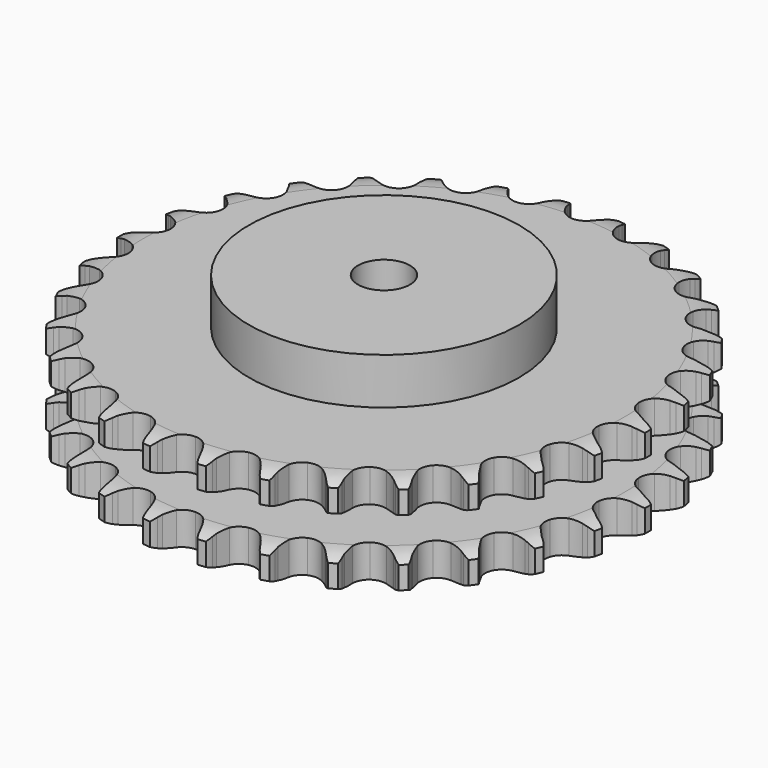
from build123d import *

# Parameters (mm, degrees)
PAD_DEPTH         = 47.7
SKETCH001_R       = 65
PAD001_DEPTH      = 70
SKETCH002_R       = 12.5
POCKET_DEPTH      = 0.0010001
POCKET_DEPTH_BACK = 70.001


with BuildPart() as part:
    # Sprocket → Pad (new body)
    with BuildSketch(Plane.XY):
        with BuildLine():
            ThreePointArc((-13.5497654013, 128.9174062969), (-11.4578494208, 126.5727685834), (-9.991186276, 123.7938591398))
            Line((-9.991186276, 123.7938591398), (-9.2168301188, 121.7624754553))
            ThreePointArc((-9.2168301188, 121.7624754553), (-7.9895060574, 119.1184321028), (-6.4032997925, 116.6727748729))
            ThreePointArc((-6.4032997925, 116.6727748729), (-3.577524826, 114.3226026411), (0, 113.4802073655))
            ThreePointArc((0, 113.4802073655), (3.577524826, 114.3226026411), (6.4032997925, 116.6727748729))
            ThreePointArc((6.4032997925, 116.6727748729), (7.9895060574, 119.1184321028), (9.2168301188, 121.7624754553))
            Line((9.2168301188, 121.7624754553), (9.991186276, 123.7938591398))
            ThreePointArc((9.991186276, 123.7938591398), (11.4578494208, 126.5727685834), (13.5497654013, 128.9174062969))
            ThreePointArc((13.5497654013, 128.9174062969), (15.1084904071, 126.1890707543), (15.9653356822, 123.1659507351))
            Line((15.9653356822, 123.1659507351), (16.300421883, 121.01795996))
            ThreePointArc((16.300421883, 121.01795996), (16.951198445, 118.1765202778), (17.9942615675, 115.4545156995))
            ThreePointArc((17.9942615675, 115.4545156995), (20.2696582887, 112.5681887185), (23.5938617877, 111.0003925654))
            ThreePointArc((23.5938617877, 111.0003925654), (27.2683529389, 111.0805702475), (30.521006225, 112.7918739262))
            Line((30.521006225, 112.7918739262), (34.3312624171, 117.185386492))
            ThreePointArc((34.3312624171, 117.185386492), (34.8971912814, 118.1138665489), (35.511045451, 119.0113818712))
            ThreePointArc((35.511045451, 119.0113818712), (37.5234262482, 121.4246290619), (40.0571064368, 123.2830970273))
            ThreePointArc((40.0571064368, 123.2830970273), (41.0145167057, 120.2903050109), (41.224095861, 117.1550992674))
            Line((41.224095861, 117.1550992674), (41.1052672304, 114.9843789058))
            ThreePointArc((41.1052672304, 114.9843789058), (41.1510542344, 112.0697274427), (41.6053873508, 109.1903401779))
            ThreePointArc((41.6053873508, 109.1903401779), (43.2309600716, 105.8940047869), (46.1565585994, 103.6693279711))
            ThreePointArc((46.1565585994, 103.6693279711), (49.7674231803, 102.9837839104), (53.3047982295, 103.9814268535))
            Line((53.3047982295, 103.9814268535), (57.9452538082, 107.4867338212))
            ThreePointArc((57.9452538082, 107.4867338212), (58.6918576274, 108.2772611341), (59.4789015388, 109.0275361349))
            ThreePointArc((59.4789015388, 109.0275361349), (61.9490492912, 110.9696505904), (64.8137597057, 112.2607248398))
            ThreePointArc((64.8137597057, 112.2607248398), (65.1280118147, 109.1342757216), (64.6811652354, 106.0240077893))
            Line((64.6811652354, 106.0240077893), (64.1136151549, 103.9254287372))
            ThreePointArc((64.1136151549, 103.9254287372), (63.5524114892, 101.0649497481), (63.3981580622, 98.1540228371))
            ThreePointArc((63.3981580622, 98.1540228371), (64.3028614541, 94.5917447102), (66.7019923165, 91.8074162839))
            ThreePointArc((66.7019923165, 91.8074162839), (70.0914182181, 90.3861120454), (73.7589147665, 90.626492469))
            Line((73.7589147665, 90.626492469), (79.0267595556, 93.0903951038))
            ThreePointArc((79.0267595556, 93.0903951038), (79.9214081604, 93.7084198358), (80.847244218, 94.2786638974))
            ThreePointArc((80.847244218, 94.2786638974), (83.6672016156, 95.6647658965), (86.7377406645, 96.33202029))
            ThreePointArc((86.7377406645, 96.33202029), (86.3951002886, 93.2085548989), (85.3113573145, 90.2591584111))
            Line((85.3113573145, 90.2591584111), (84.3198904458, 88.3244386432))
            ThreePointArc((84.3198904458, 88.3244386432), (83.1762234035, 85.6431487862), (82.4201250481, 82.827903703))
            ThreePointArc((82.4201250481, 82.827903703), (82.5644192318, 79.1553714882), (84.3322288978, 75.9330799642))
            ThreePointArc((84.3322288978, 75.9330799642), (87.3520819439, 73.8381333633), (90.9894127937, 73.3107454895))
            Line((90.9894127937, 73.3107454895), (96.654416698, 74.6255594231))
            ThreePointArc((96.654416698, 74.6255594231), (97.6580096513, 75.0440709278), (98.6821743767, 75.4093616483))
            ThreePointArc((98.6821743767, 75.4093616483), (101.7286957497, 76.1788718826), (104.8708661424, 76.1931442012))
            ThreePointArc((104.8708661424, 76.1931442012), (103.8863083102, 73.2091729629), (102.2130337095, 70.5495506989))
            Line((102.2130337095, 70.5495506989), (100.8409819126, 68.8632467529))
            ThreePointArc((100.8409819126, 68.8632467529), (99.1648352313, 66.4783312608), (97.8399370737, 63.8818077248))
            ThreePointArc((97.8399370737, 63.8818077248), (97.2175157009, 60.2595287025), (98.2767424053, 56.7401036828))
            ThreePointArc((98.2767424053, 56.7401036828), (100.7950405269, 54.0630739386), (104.2432368662, 52.7909671481))
            Line((104.2432368662, 52.7909671481), (110.0578120314, 52.8992287024))
            ThreePointArc((110.0578120314, 52.8992287024), (111.1264875053, 53.0999360188), (112.2042199856, 53.2443084409))
            ThreePointArc((112.2042199856, 53.2443084409), (115.344157731, 53.3635956205), (118.4206315437, 52.7242620956))
            ThreePointArc((118.4206315437, 52.7242620956), (116.8371861568, 50.0101988718), (114.6475100589, 47.7565890868))
            Line((114.6475100589, 47.7565890868), (112.954838581, 46.3924005369))
            ThreePointArc((112.954838581, 46.3924005369), (110.8194679139, 44.4080916609), (108.9836743612, 42.14377021))
            ThreePointArc((108.9836743612, 42.14377021), (107.6217402326, 38.7300553552), (107.9260906855, 35.0673126011))
            ThreePointArc((107.9260906855, 35.0673126011), (109.8327721706, 31.9251987593), (112.941131273, 29.9639702232))
            Line((112.941131273, 29.9639702232), (118.651152863, 28.8609478488))
            ThreePointArc((118.651152863, 28.8609478488), (119.7382046112, 28.835079104), (120.8224027654, 28.7522234601))
            ThreePointArc((120.8224027654, 28.7522234601), (123.9185265368, 28.216074163), (126.7948471013, 26.9510767373))
            ThreePointArc((126.7948471013, 26.9510767373), (124.6817183213, 24.6255391144), (122.071340079, 22.8764353701))
            Line((122.071340079, 22.8764353701), (120.132026786, 21.893983802))
            ThreePointArc((120.132026786, 21.893983802), (117.6307580778, 20.3970053618), (115.3643021173, 18.5638477088))
            ThreePointArc((115.3643021173, 18.5638477088), (113.3223782897, 15.5078927415), (112.8585509159, 11.8619116872))
            ThreePointArc((112.8585509159, 11.8619116872), (114.0702846344, 8.3920392002), (116.7029562916, 5.8274040164))
            Line((116.7029562916, 5.8274040164), (122.0588689631, 3.561305084))
            ThreePointArc((122.0588689631, 3.561305084), (123.116787608, 3.3099908664), (124.1600667743, 3.0035283456))
            ThreePointArc((124.1600667743, 3.0035283456), (127.0770611059, 1.8353748687), (129.6275194113, 0))
            ThreePointArc((129.6275194113, 0), (127.0770611059, -1.8353748687), (124.1600667743, -3.0035283456))
            Line((124.1600667743, -3.0035283456), (122.0588689631, -3.561305084))
            ThreePointArc((122.0588689631, -3.561305084), (119.3010196587, -4.5055279473), (116.7029562916, -5.8274040164))
            ThreePointArc((116.7029562916, -5.8274040164), (114.0702846344, -8.3920392002), (112.8585509159, -11.8619116872))
            ThreePointArc((112.8585509159, -11.8619116872), (113.3223782897, -15.5078927415), (115.3643021173, -18.5638477088))
            Line((115.3643021173, -18.5638477088), (120.132026786, -21.893983802))
            ThreePointArc((120.132026786, -21.893983802), (121.1145762065, -22.3597598552), (122.071340079, -22.8764353701))
            ThreePointArc((122.071340079, -22.8764353701), (124.6817183213, -24.6255391144), (126.7948471013, -26.9510767373))
            ThreePointArc((126.7948471013, -26.9510767373), (123.9185265368, -28.216074163), (120.8224027654, -28.7522234601))
            Line((120.8224027654, -28.7522234601), (118.651152863, -28.8609478488))
            ThreePointArc((118.651152863, -28.8609478488), (115.7572542107, -29.2111480652), (112.941131273, -29.9639702232))
            ThreePointArc((112.941131273, -29.9639702232), (109.8327721706, -31.9251987593), (107.9260906855, -35.0673126011))
            ThreePointArc((107.9260906855, -35.0673126011), (107.6217402326, -38.7300553552), (108.9836743612, -42.14377021))
            Line((108.9836743612, -42.14377021), (112.954838581, -46.3924005369))
            ThreePointArc((112.954838581, -46.3924005369), (113.8190766525, -47.0522817771), (114.6475100589, -47.7565890868))
            ThreePointArc((114.6475100589, -47.7565890868), (116.8371861568, -50.0101988718), (118.4206315437, -52.7242620956))
            ThreePointArc((118.4206315437, -52.7242620956), (115.344157731, -53.3635956205), (112.2042199856, -53.2443084409))
            Line((112.2042199856, -53.2443084409), (110.0578120314, -52.8992287024))
            ThreePointArc((110.0578120314, -52.8992287024), (107.1543412887, -52.640100842), (104.2432368662, -52.7909671481))
            ThreePointArc((104.2432368662, -52.7909671481), (100.7950405269, -54.0630739386), (98.2767424053, -56.7401036828))
            ThreePointArc((98.2767424053, -56.7401036828), (97.2175157009, -60.2595287025), (97.8399370737, -63.8818077248))
            Line((97.8399370737, -63.8818077248), (100.8409819126, -68.8632467529))
            ThreePointArc((100.8409819126, -68.8632467529), (101.5491372842, -69.6883932035), (102.2130337095, -70.5495506989))
            ThreePointArc((102.2130337095, -70.5495506989), (103.8863083102, -73.2091729629), (104.8708661424, -76.1931442012))
            ThreePointArc((104.8708661424, -76.1931442012), (101.7286957497, -76.1788718826), (98.6821743767, -75.4093616483))
            Line((98.6821743767, -75.4093616483), (96.654416698, -74.6255594231))
            ThreePointArc((96.654416698, -74.6255594231), (93.8682694689, -73.7684286168), (90.9894127937, -73.3107454895))
            ThreePointArc((90.9894127937, -73.3107454895), (87.3520819439, -73.8381333633), (84.3322288978, -75.9330799642))
            ThreePointArc((84.3322288978, -75.9330799642), (82.5644192318, -79.1553714882), (82.4201250481, -82.827903703))
            Line((82.4201250481, -82.827903703), (84.3198904458, -88.3244386432))
            ThreePointArc((84.3198904458, -88.3244386432), (84.8410133298, -89.2787874448), (85.3113573145, -90.2591584111))
            ThreePointArc((85.3113573145, -90.2591584111), (86.3951002886, -93.2085548989), (86.7377406645, -96.33202029))
            ThreePointArc((86.7377406645, -96.33202029), (83.6672016156, -95.6647658965), (80.847244218, -94.2786638974))
            Line((80.847244218, -94.2786638974), (79.0267595556, -93.0903951038))
            ThreePointArc((79.0267595556, -93.0903951038), (76.4797038433, -91.6727220809), (73.7589147665, -90.626492469))
            ThreePointArc((73.7589147665, -90.626492469), (70.0914182181, -90.3861120454), (66.7019923165, -91.8074162839))
            ThreePointArc((66.7019923165, -91.8074162839), (64.3028614541, -94.5917447102), (63.3981580622, -98.1540228371))
            Line((63.3981580622, -98.1540228371), (64.1136151549, -103.9254287372))
            ThreePointArc((64.1136151549, -103.9254287372), (64.4249299806, -104.9672702677), (64.6811652354, -106.0240077893))
            ThreePointArc((64.6811652354, -106.0240077893), (65.1280118147, -109.1342757216), (64.8137597057, -112.2607248398))
            ThreePointArc((64.8137597057, -112.2607248398), (61.9490492912, -110.9696505904), (59.4789015388, -109.0275361349))
            Line((59.4789015388, -109.0275361349), (57.9452538082, -107.4867338212))
            ThreePointArc((57.9452538082, -107.4867338212), (55.7486081695, -105.5704776954), (53.3047982295, -103.9814268535))
            ThreePointArc((53.3047982295, -103.9814268535), (49.7674231803, -102.9837839104), (46.1565585994, -103.6693279711))
            ThreePointArc((46.1565585994, -103.6693279711), (43.2309600716, -105.8940047869), (41.6053873508, -109.1903401779))
            Line((41.6053873508, -109.1903401779), (41.1052672304, -114.9843789058))
            ThreePointArc((41.1052672304, -114.9843789058), (41.1931680461, -116.068179691), (41.224095861, -117.1550992674))
            ThreePointArc((41.224095861, -117.1550992674), (41.0145167057, -120.2903050109), (40.0571064368, -123.2830970273))
            ThreePointArc((40.0571064368, -123.2830970273), (37.5234262482, -121.4246290619), (35.511045451, -119.0113818712))
            Line((35.511045451, -119.0113818712), (34.3312624171, -117.185386492))
            ThreePointArc((34.3312624171, -117.185386492), (32.5810308072, -114.8542968514), (30.521006225, -112.7918739262))
            ThreePointArc((30.521006225, -112.7918739262), (27.2683529389, -111.0805702475), (23.5938617877, -111.0003925654))
            ThreePointArc((23.5938617877, -111.0003925654), (20.2696582887, -112.5681887185), (17.9942615675, -115.4545156995))
            Line((17.9942615675, -115.4545156995), (16.300421883, -121.01795996))
            ThreePointArc((16.300421883, -121.01795996), (16.1610670012, -122.0963527049), (15.9653356822, -123.1659507351))
            ThreePointArc((15.9653356822, -123.1659507351), (15.1084904071, -126.1890707543), (13.5497654013, -128.9174062969))
            ThreePointArc((13.5497654013, -128.9174062969), (11.4578494208, -126.5727685834), (9.991186276, -123.7938591398))
            Line((9.991186276, -123.7938591398), (9.2168301188, -121.7624754553))
            ThreePointArc((9.2168301188, -121.7624754553), (7.9895060574, -119.1184321028), (6.4032997925, -116.6727748729))
            ThreePointArc((6.4032997925, -116.6727748729), (3.577524826, -114.3226026411), (0, -113.4802073655))
            ThreePointArc((0, -113.4802073655), (-3.577524826, -114.3226026411), (-6.4032997925, -116.6727748729))
            Line((-6.4032997925, -116.6727748729), (-9.2168301188, -121.7624754553))
            ThreePointArc((-9.2168301188, -121.7624754553), (-9.577350221, -122.7883292223), (-9.991186276, -123.7938591398))
            ThreePointArc((-9.991186276, -123.7938591398), (-11.4578494208, -126.5727685834), (-13.5497654013, -128.9174062969))
            ThreePointArc((-13.5497654013, -128.9174062969), (-15.1084904071, -126.1890707543), (-15.9653356822, -123.1659507351))
            Line((-15.9653356822, -123.1659507351), (-16.300421883, -121.01795996))
            ThreePointArc((-16.300421883, -121.01795996), (-16.951198445, -118.1765202778), (-17.9942615675, -115.4545156995))
            ThreePointArc((-17.9942615675, -115.4545156995), (-20.2696582887, -112.5681887185), (-23.5938617877, -111.0003925654))
            ThreePointArc((-23.5938617877, -111.0003925654), (-27.2683529389, -111.0805702475), (-30.521006225, -112.7918739262))
            Line((-30.521006225, -112.7918739262), (-34.3312624171, -117.185386492))
            ThreePointArc((-34.3312624171, -117.185386492), (-34.8971912814, -118.1138665489), (-35.511045451, -119.0113818712))
            ThreePointArc((-35.511045451, -119.0113818712), (-37.5234262482, -121.4246290619), (-40.0571064368, -123.2830970273))
            ThreePointArc((-40.0571064368, -123.2830970273), (-41.0145167057, -120.2903050109), (-41.224095861, -117.1550992674))
            Line((-41.224095861, -117.1550992674), (-41.1052672304, -114.9843789058))
            ThreePointArc((-41.1052672304, -114.9843789058), (-41.1510542344, -112.0697274427), (-41.6053873508, -109.1903401779))
            ThreePointArc((-41.6053873508, -109.1903401779), (-43.2309600716, -105.8940047869), (-46.1565585994, -103.6693279711))
            ThreePointArc((-46.1565585994, -103.6693279711), (-49.7674231803, -102.9837839104), (-53.3047982295, -103.9814268535))
            Line((-53.3047982295, -103.9814268535), (-57.9452538082, -107.4867338212))
            ThreePointArc((-57.9452538082, -107.4867338212), (-58.6918576274, -108.2772611341), (-59.4789015388, -109.0275361349))
            ThreePointArc((-59.4789015388, -109.0275361349), (-61.9490492912, -110.9696505904), (-64.8137597057, -112.2607248398))
            ThreePointArc((-64.8137597057, -112.2607248398), (-65.1280118147, -109.1342757216), (-64.6811652354, -106.0240077893))
            Line((-64.6811652354, -106.0240077893), (-64.1136151549, -103.9254287372))
            ThreePointArc((-64.1136151549, -103.9254287372), (-63.5524114892, -101.0649497481), (-63.3981580622, -98.1540228371))
            ThreePointArc((-63.3981580622, -98.1540228371), (-64.3028614541, -94.5917447102), (-66.7019923165, -91.8074162839))
            ThreePointArc((-66.7019923165, -91.8074162839), (-70.0914182181, -90.3861120454), (-73.7589147665, -90.626492469))
            Line((-73.7589147665, -90.626492469), (-79.0267595556, -93.0903951038))
            ThreePointArc((-79.0267595556, -93.0903951038), (-79.9214081604, -93.7084198358), (-80.847244218, -94.2786638974))
            ThreePointArc((-80.847244218, -94.2786638974), (-83.6672016156, -95.6647658965), (-86.7377406645, -96.33202029))
            ThreePointArc((-86.7377406645, -96.33202029), (-86.3951002886, -93.2085548989), (-85.3113573145, -90.2591584111))
            Line((-85.3113573145, -90.2591584111), (-84.3198904458, -88.3244386432))
            ThreePointArc((-84.3198904458, -88.3244386432), (-83.1762234035, -85.6431487862), (-82.4201250481, -82.827903703))
            ThreePointArc((-82.4201250481, -82.827903703), (-82.5644192318, -79.1553714882), (-84.3322288978, -75.9330799642))
            ThreePointArc((-84.3322288978, -75.9330799642), (-87.3520819439, -73.8381333633), (-90.9894127937, -73.3107454895))
            Line((-90.9894127937, -73.3107454895), (-96.654416698, -74.6255594231))
            ThreePointArc((-96.654416698, -74.6255594231), (-97.6580096513, -75.0440709278), (-98.6821743767, -75.4093616483))
            ThreePointArc((-98.6821743767, -75.4093616483), (-101.7286957497, -76.1788718826), (-104.8708661424, -76.1931442012))
            ThreePointArc((-104.8708661424, -76.1931442012), (-103.8863083102, -73.2091729629), (-102.2130337095, -70.5495506989))
            Line((-102.2130337095, -70.5495506989), (-100.8409819126, -68.8632467529))
            ThreePointArc((-100.8409819126, -68.8632467529), (-99.1648352313, -66.4783312608), (-97.8399370737, -63.8818077248))
            ThreePointArc((-97.8399370737, -63.8818077248), (-97.2175157009, -60.2595287025), (-98.2767424053, -56.7401036828))
            ThreePointArc((-98.2767424053, -56.7401036828), (-100.7950405269, -54.0630739386), (-104.2432368662, -52.7909671481))
            Line((-104.2432368662, -52.7909671481), (-110.0578120314, -52.8992287024))
            ThreePointArc((-110.0578120314, -52.8992287024), (-111.1264875053, -53.0999360188), (-112.2042199856, -53.2443084409))
            ThreePointArc((-112.2042199856, -53.2443084409), (-115.344157731, -53.3635956205), (-118.4206315437, -52.7242620956))
            ThreePointArc((-118.4206315437, -52.7242620956), (-116.8371861568, -50.0101988718), (-114.6475100589, -47.7565890868))
            Line((-114.6475100589, -47.7565890868), (-112.954838581, -46.3924005369))
            ThreePointArc((-112.954838581, -46.3924005369), (-110.8194679139, -44.4080916609), (-108.9836743612, -42.14377021))
            ThreePointArc((-108.9836743612, -42.14377021), (-107.6217402326, -38.7300553552), (-107.9260906855, -35.0673126011))
            ThreePointArc((-107.9260906855, -35.0673126011), (-109.8327721706, -31.9251987593), (-112.941131273, -29.9639702232))
            Line((-112.941131273, -29.9639702232), (-118.651152863, -28.8609478488))
            ThreePointArc((-118.651152863, -28.8609478488), (-119.7382046112, -28.835079104), (-120.8224027654, -28.7522234601))
            ThreePointArc((-120.8224027654, -28.7522234601), (-123.9185265368, -28.216074163), (-126.7948471013, -26.9510767373))
            ThreePointArc((-126.7948471013, -26.9510767373), (-124.6817183213, -24.6255391144), (-122.071340079, -22.8764353701))
            Line((-122.071340079, -22.8764353701), (-120.132026786, -21.893983802))
            ThreePointArc((-120.132026786, -21.893983802), (-117.6307580778, -20.3970053618), (-115.3643021173, -18.5638477088))
            ThreePointArc((-115.3643021173, -18.5638477088), (-113.3223782897, -15.5078927415), (-112.8585509159, -11.8619116872))
            ThreePointArc((-112.8585509159, -11.8619116872), (-114.0702846344, -8.3920392002), (-116.7029562916, -5.8274040164))
            Line((-116.7029562916, -5.8274040164), (-122.0588689631, -3.561305084))
            ThreePointArc((-122.0588689631, -3.561305084), (-123.116787608, -3.3099908664), (-124.1600667743, -3.0035283456))
            ThreePointArc((-124.1600667743, -3.0035283456), (-127.0770611059, -1.8353748687), (-129.6275194113, 0))
            ThreePointArc((-129.6275194113, 0), (-127.0770611059, 1.8353748687), (-124.1600667743, 3.0035283456))
            Line((-124.1600667743, 3.0035283456), (-122.0588689631, 3.561305084))
            ThreePointArc((-122.0588689631, 3.561305084), (-119.3010196587, 4.5055279473), (-116.7029562916, 5.8274040164))
            ThreePointArc((-116.7029562916, 5.8274040164), (-114.0702846344, 8.3920392002), (-112.8585509159, 11.8619116872))
            ThreePointArc((-112.8585509159, 11.8619116872), (-113.3223782897, 15.5078927415), (-115.3643021173, 18.5638477088))
            Line((-115.3643021173, 18.5638477088), (-120.132026786, 21.893983802))
            ThreePointArc((-120.132026786, 21.893983802), (-121.1145762065, 22.3597598552), (-122.071340079, 22.8764353701))
            ThreePointArc((-122.071340079, 22.8764353701), (-124.6817183213, 24.6255391144), (-126.7948471013, 26.9510767373))
            ThreePointArc((-126.7948471013, 26.9510767373), (-123.9185265368, 28.216074163), (-120.8224027654, 28.7522234601))
            Line((-120.8224027654, 28.7522234601), (-118.651152863, 28.8609478488))
            ThreePointArc((-118.651152863, 28.8609478488), (-115.7572542107, 29.2111480652), (-112.941131273, 29.9639702232))
            ThreePointArc((-112.941131273, 29.9639702232), (-109.8327721706, 31.9251987593), (-107.9260906855, 35.0673126011))
            ThreePointArc((-107.9260906855, 35.0673126011), (-107.6217402326, 38.7300553552), (-108.9836743612, 42.14377021))
            Line((-108.9836743612, 42.14377021), (-112.954838581, 46.3924005369))
            ThreePointArc((-112.954838581, 46.3924005369), (-113.8190766525, 47.0522817771), (-114.6475100589, 47.7565890868))
            ThreePointArc((-114.6475100589, 47.7565890868), (-116.8371861568, 50.0101988718), (-118.4206315437, 52.7242620956))
            ThreePointArc((-118.4206315437, 52.7242620956), (-115.344157731, 53.3635956205), (-112.2042199856, 53.2443084409))
            Line((-112.2042199856, 53.2443084409), (-110.0578120314, 52.8992287024))
            ThreePointArc((-110.0578120314, 52.8992287024), (-107.1543412887, 52.640100842), (-104.2432368662, 52.7909671481))
            ThreePointArc((-104.2432368662, 52.7909671481), (-100.7950405269, 54.0630739386), (-98.2767424053, 56.7401036828))
            ThreePointArc((-98.2767424053, 56.7401036828), (-97.2175157009, 60.2595287025), (-97.8399370737, 63.8818077248))
            Line((-97.8399370737, 63.8818077248), (-100.8409819126, 68.8632467529))
            ThreePointArc((-100.8409819126, 68.8632467529), (-101.5491372842, 69.6883932035), (-102.2130337095, 70.5495506989))
            ThreePointArc((-102.2130337095, 70.5495506989), (-103.8863083102, 73.2091729629), (-104.8708661424, 76.1931442012))
            ThreePointArc((-104.8708661424, 76.1931442012), (-101.7286957497, 76.1788718826), (-98.6821743767, 75.4093616483))
            Line((-98.6821743767, 75.4093616483), (-96.654416698, 74.6255594231))
            ThreePointArc((-96.654416698, 74.6255594231), (-93.8682694689, 73.7684286168), (-90.9894127937, 73.3107454895))
            ThreePointArc((-90.9894127937, 73.3107454895), (-87.3520819439, 73.8381333633), (-84.3322288978, 75.9330799642))
            ThreePointArc((-84.3322288978, 75.9330799642), (-82.5644192318, 79.1553714882), (-82.4201250481, 82.827903703))
            Line((-82.4201250481, 82.827903703), (-84.3198904458, 88.3244386432))
            ThreePointArc((-84.3198904458, 88.3244386432), (-84.8410133298, 89.2787874448), (-85.3113573145, 90.2591584111))
            ThreePointArc((-85.3113573145, 90.2591584111), (-86.3951002886, 93.2085548989), (-86.7377406645, 96.33202029))
            ThreePointArc((-86.7377406645, 96.33202029), (-83.6672016156, 95.6647658965), (-80.847244218, 94.2786638974))
            Line((-80.847244218, 94.2786638974), (-79.0267595556, 93.0903951038))
            ThreePointArc((-79.0267595556, 93.0903951038), (-76.4797038433, 91.6727220809), (-73.7589147665, 90.626492469))
            ThreePointArc((-73.7589147665, 90.626492469), (-70.0914182181, 90.3861120454), (-66.7019923165, 91.8074162839))
            ThreePointArc((-66.7019923165, 91.8074162839), (-64.3028614541, 94.5917447102), (-63.3981580622, 98.1540228371))
            Line((-63.3981580622, 98.1540228371), (-64.1136151549, 103.9254287372))
            ThreePointArc((-64.1136151549, 103.9254287372), (-64.4249299806, 104.9672702677), (-64.6811652354, 106.0240077893))
            ThreePointArc((-64.6811652354, 106.0240077893), (-65.1280118147, 109.1342757216), (-64.8137597057, 112.2607248398))
            ThreePointArc((-64.8137597057, 112.2607248398), (-61.9490492912, 110.9696505904), (-59.4789015388, 109.0275361349))
            Line((-59.4789015388, 109.0275361349), (-57.9452538082, 107.4867338212))
            ThreePointArc((-57.9452538082, 107.4867338212), (-55.7486081695, 105.5704776954), (-53.3047982295, 103.9814268535))
            ThreePointArc((-53.3047982295, 103.9814268535), (-49.7674231803, 102.9837839104), (-46.1565585994, 103.6693279711))
            ThreePointArc((-46.1565585994, 103.6693279711), (-43.2309600716, 105.8940047869), (-41.6053873508, 109.1903401779))
            Line((-41.6053873508, 109.1903401779), (-41.1052672304, 114.9843789058))
            ThreePointArc((-41.1052672304, 114.9843789058), (-41.1931680461, 116.068179691), (-41.224095861, 117.1550992674))
            ThreePointArc((-41.224095861, 117.1550992674), (-41.0145167057, 120.2903050109), (-40.0571064368, 123.2830970273))
            ThreePointArc((-40.0571064368, 123.2830970273), (-37.5234262482, 121.4246290619), (-35.511045451, 119.0113818712))
            Line((-35.511045451, 119.0113818712), (-34.3312624171, 117.185386492))
            ThreePointArc((-34.3312624171, 117.185386492), (-32.5810308072, 114.8542968514), (-30.521006225, 112.7918739262))
            ThreePointArc((-30.521006225, 112.7918739262), (-27.2683529389, 111.0805702475), (-23.5938617877, 111.0003925654))
            ThreePointArc((-23.5938617877, 111.0003925654), (-20.2696582887, 112.5681887185), (-17.9942615675, 115.4545156995))
            Line((-17.9942615675, 115.4545156995), (-16.300421883, 121.01795996))
            ThreePointArc((-16.300421883, 121.01795996), (-16.1610670012, 122.0963527049), (-15.9653356822, 123.1659507351))
            ThreePointArc((-15.9653356822, 123.1659507351), (-15.1084904071, 126.1890707543), (-13.5497654013, 128.9174062969))
        make_face()
    extrude(amount=PAD_DEPTH)

    # Sketch → Groove (revolve, cut)
    with BuildSketch(Plane.XZ):
        with BuildLine():
            ThreePointArc((115.8757022694, 0), (121.5765793949, 0.6326982121), (127, 2.5))
            Line((127, 2.5), (127, 13.3))
            ThreePointArc((127, 13.3), (121.5765793949, 15.1673017879), (115.8757022694, 15.8))
            Line((65, 15.8), (115.8757022694, 15.8))
            Line((65, 31.9), (65, 15.8))
            Line((115.8757022694, 31.9), (65, 31.9))
            ThreePointArc((115.8757022694, 31.9), (121.5765793949, 32.5326982121), (127, 34.4))
            Line((127, 34.4), (127, 45.2))
            ThreePointArc((127, 45.2), (121.5765793949, 47.0673017879), (115.8757022694, 47.7))
            Line((115.8757022694, 47.7), (137, 47.7))
            Line((137, 47.7), (137, 0))
            Line((115.8757022694, 0), (137, 0))
        make_face()
    revolve(axis=Axis((0, 0, 0), (0, 0, 1)), mode=Mode.SUBTRACT)

    # Sketch001 → Pad001 (join)
    with BuildSketch(Plane.XY):
        Circle(SKETCH001_R)
    extrude(amount=PAD001_DEPTH)

    # Sketch002 → Pocket (cut, two sides)
    with BuildSketch(Plane.XY) as pocket_sk:
        Circle(SKETCH002_R)
    extrude(amount=-POCKET_DEPTH, mode=Mode.SUBTRACT)
    extrude(pocket_sk.sketch, amount=POCKET_DEPTH_BACK, mode=Mode.SUBTRACT)


solid = part.part
